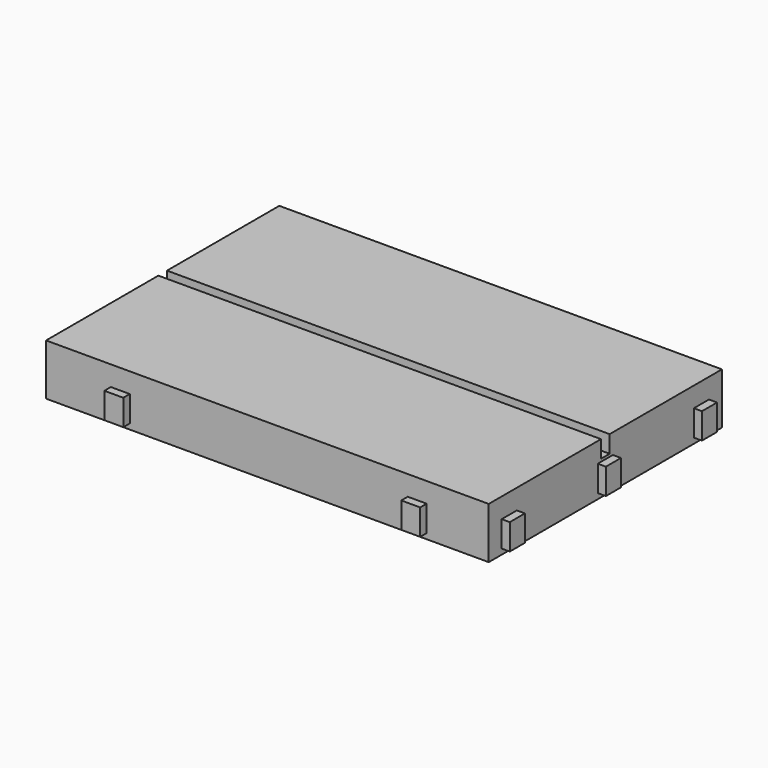
from build123d import *

# Parameters (mm, degrees)
F0_W     = 82
F0_H     = 54
F1_DEPTH = 9.5
F2_W     = 82
F2_H     = 2
F3_DEPTH = 3.2
F4_W     = 3.5
F4_H     = 4.8
F6_DEPTH = 1.5
F5_W     = 3.5
F5_H     = 4.8
F7_DEPTH = 1.5


with BuildPart() as f1:
    # F0 (on Top) → F1 (new body)
    with BuildSketch(Plane.XY):
        Rectangle(F0_W, F0_H)
    extrude(amount=F1_DEPTH)

    # F2 (on face) → F3 (cut)
    with BuildSketch(Plane.XY.offset(9.5)):
        Rectangle(F2_W, F2_H)
    extrude(amount=-F3_DEPTH, mode=Mode.SUBTRACT)

    # F4 (on face) → F6 (join)
    with BuildSketch(Plane.XZ.offset(27)):
        with Locations((27.75, 3.4)):
            Rectangle(F4_W, F4_H)
        with Locations((-27.25, 3.4)):
            Rectangle(F4_W, F4_H)
    extrude(amount=F6_DEPTH)

    # F5 (on face) → F7 (join)
    with BuildSketch(Plane.YZ.offset(41)):
        with Locations((-22.25, 3.4)):
            Rectangle(F5_W, F5_H)
        with Locations((0, 3.4)):
            Rectangle(F5_W, F5_H)
        with Locations((22.25, 3.4)):
            Rectangle(F5_W, F5_H)
    extrude(amount=F7_DEPTH)


solid = f1.part
